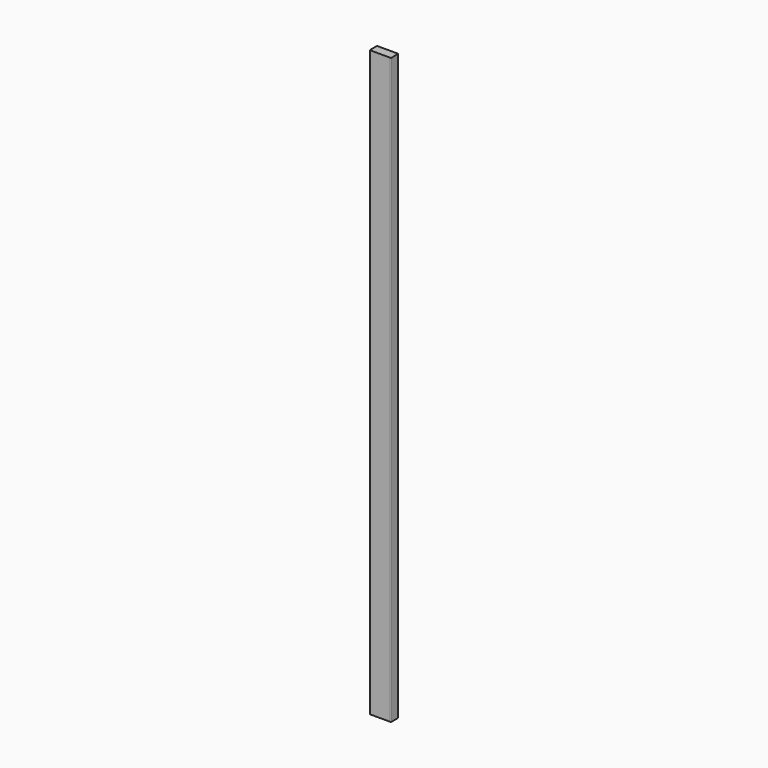
from build123d import *

# Parameters (mm, degrees)
F1_DEPTH = 2438.4


with BuildPart() as f1:
    # F0 (on Top) → F1 (new body)
    with BuildSketch(Plane.XY):
        with BuildLine():
            Line((-61.6295757718, 13.413597323), (-144.1795757718, 13.413597323))
            ThreePointArc((-144.1795757718, 13.413597323), (-146.4246398021, 12.4836613533), (-147.3545757718, 10.238597323))
            Line((-147.3545757718, 10.238597323), (-147.3545757718, -21.511402677))
            ThreePointArc((-147.3545757718, -21.511402677), (-146.4246398021, -23.7564667073), (-144.1795757718, -24.686402677))
            Line((-144.1795757718, -24.686402677), (-61.6295757718, -24.686402677))
            ThreePointArc((-61.6295757718, -24.686402677), (-59.3845117415, -23.7564667073), (-58.4545757718, -21.511402677))
            Line((-58.4545757718, -21.511402677), (-58.4545757718, 10.238597323))
            ThreePointArc((-58.4545757718, 10.238597323), (-59.3845117415, 12.4836613533), (-61.6295757718, 13.413597323))
        make_face()
    extrude(amount=F1_DEPTH)


with BuildPart() as f1_1:
    # F3: moved
    add(f1.part.moved(Location((102.9045757718, -13.413597323, 0))))


solid = f1_1.part
